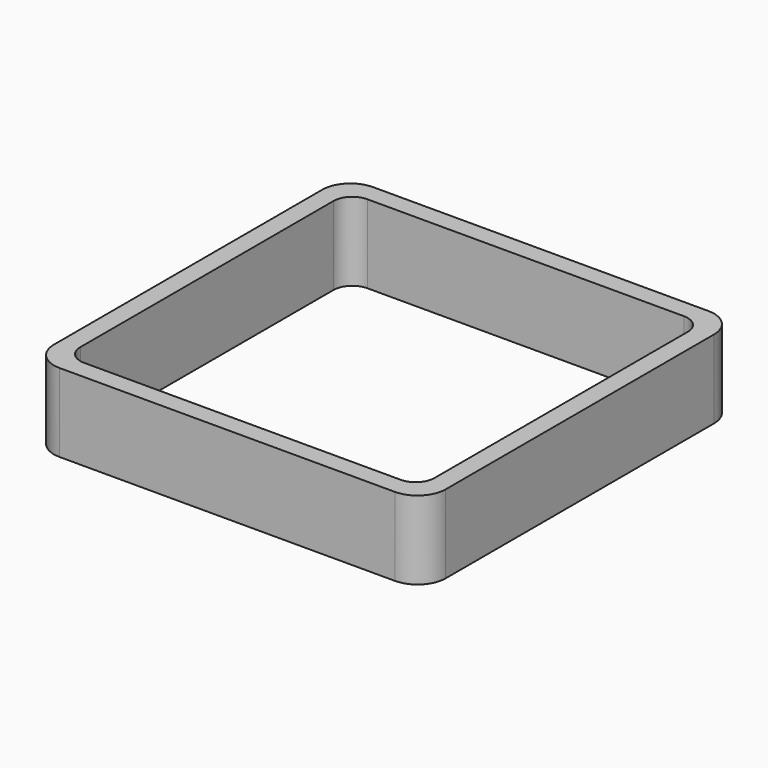
from build123d import *

# Parameters (mm, degrees)
EXTRUDE_DEPTH = 50


with BuildPart() as part:
    # Sketch → Extrude (new body)
    with BuildSketch(Plane.XY):
        with BuildLine():
            Line((-107, 125), (107, 125))
            ThreePointArc((125, 107), (119.727922, 119.727922), (107, 125))
            Line((125, 107), (125, -107))
            ThreePointArc((107, -125), (119.727922, -119.727922), (125, -107))
            Line((107, -125), (-107, -125))
            ThreePointArc((-125, -107), (-119.727922, -119.727922), (-107, -125))
            Line((-125, -107), (-125, 107))
            ThreePointArc((-107, 125), (-119.727922, 119.727922), (-125, 107))
        make_face()
        with BuildLine():
            Line((-101, 113), (101, 113))
            ThreePointArc((113, 101), (109.485281, 109.485281), (101, 113))
            Line((113, 101), (113, -101))
            ThreePointArc((101, -113), (109.485281, -109.485281), (113, -101))
            Line((101, -113), (-101, -113))
            ThreePointArc((-113, -101), (-109.485281, -109.485281), (-101, -113))
            Line((-113, -101), (-113, 101))
            ThreePointArc((-101, 113), (-109.485281, 109.485281), (-113, 101))
        make_face(mode=Mode.SUBTRACT)
    extrude(amount=EXTRUDE_DEPTH)


solid = part.part
